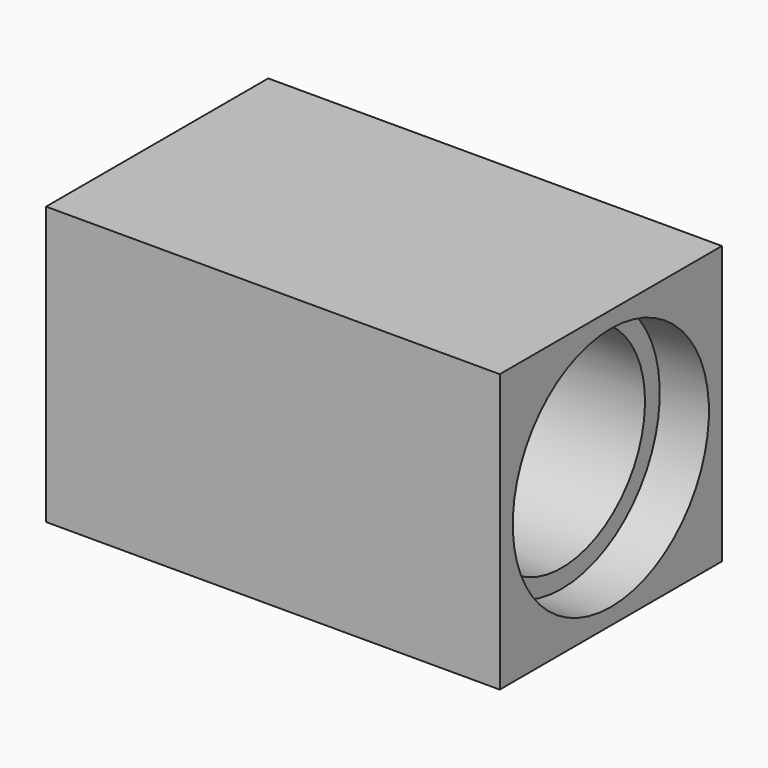
from build123d import *

# Parameters (mm, degrees)
F0_W     = 10.6189064682
F0_H     = 22.5
F0_W_2   = 25.791388005
F0_H_2   = 3.9892950654
F1_DEPTH = 30


with BuildPart() as f1:
    # F0 (on Front) → F1 (new body, symmetric)
    with BuildSketch(Plane.XZ):
        Polygon((-61.6173371673, 30), (-61.6173371673, 22.5), (-20.9044199437, 15), (-20.9044199437, 0), (-20.9044199437, -15), (-61.6173371673, -22.5), (-61.6173371673, -30), (0, -30), (36.4102944732, -30), (36.4102944732, -26.4892950654), (25.791388005, -26.4892950654), (25.791388005, -22.5), (0, -22.5), (0, 0), (0, 22.5), (25.791388005, 22.5), (25.791388005, 26.4892950654), (36.4102944732, 26.4892950654), (36.4102944732, 30), (0, 30), align=None)
        with Locations((31.1008412391, 11.25)):
            Rectangle(F0_W, F0_H)
        with Locations((12.8956940025, 11.25)):
            Rectangle(F0_W_2, F0_H)
        Polygon((-20.9044199437, 15), (-61.6173371673, 22.5), (-61.6173371673, 0), (-20.9044199437, 0), align=None)
        Polygon((-20.9044199437, 0), (-61.6173371673, 0), (-61.6173371673, -22.5), (-20.9044199437, -15), align=None)
        with Locations((31.1008412391, -11.25)):
            Rectangle(F0_W, F0_H)
        with Locations((12.8956940025, -11.25)):
            Rectangle(F0_W_2, F0_H)
        with Locations((31.1008412391, 24.4946475327)):
            Rectangle(F0_W, F0_H_2)
        with Locations((31.1008412391, -24.4946475327)):
            Rectangle(F0_W, F0_H_2)
    extrude(amount=F1_DEPTH, both=True)

    # F0 (on Front) → F2 (revolve, cut)
    with BuildSketch(Plane.XZ):
        Polygon((-20.9044199437, 0), (-61.6173371673, 0), (-61.6173371673, -22.5), (-20.9044199437, -15), align=None)
    revolve(axis=Axis((-6.6388677806, 0, 0), (1, 0, 0)), mode=Mode.SUBTRACT)

    # F0 (on Front) → F3 (revolve, cut)
    with BuildSketch(Plane.XZ):
        with Locations((31.1008412391, 11.25)):
            Rectangle(F0_W, F0_H)
        with Locations((12.8956940025, 11.25)):
            Rectangle(F0_W_2, F0_H)
        with Locations((31.1008412391, 24.4946475327)):
            Rectangle(F0_W, F0_H_2)
    revolve(axis=Axis((-6.6388677806, 0, 0), (1, 0, 0)), mode=Mode.SUBTRACT)


solid = f1.part
